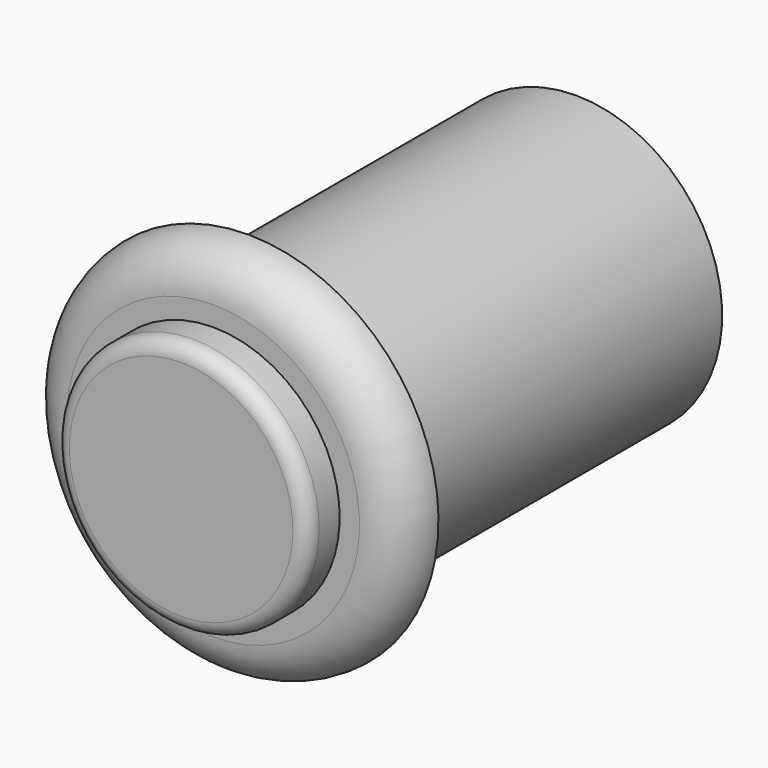
from build123d import *


with BuildPart() as f1:
    # F0 (on Right) → F1 (revolve)
    with BuildSketch(Plane.YZ):
        with BuildLine():
            Line((0, 12.7), (0, 16.51))
            ThreePointArc((0, 16.51), (-2.694077, 15.394077), (-3.81, 12.7))
            Line((-3.81, 12.7), (-3.81, 10.97915))
            Line((-3.81, 10.97915), (-6.0325, 10.97915))
            ThreePointArc((-6.0325, 10.97915), (-6.930526, 10.607176), (-7.3025, 9.70915))
            Line((-7.3025, 9.70915), (-7.3025, 0))
            Line((-7.3025, 0), (0, 0))
            Line((0, 0), (35.56, 0))
            Line((35.56, 0), (35.56, 12.7))
            Line((35.56, 12.7), (0, 12.7))
        make_face()
    revolve(axis=Axis((0, 17.78, 0), (0, 1, 0)))


solid = f1.part
